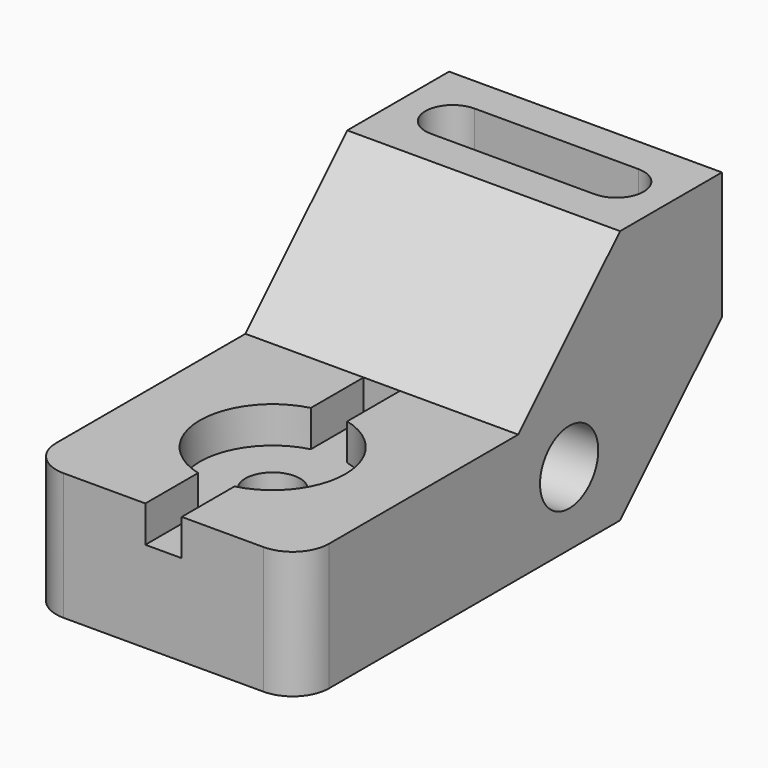
from build123d import *

# Parameters (mm, degrees)
F0_W           = 76.2
F0_H           = 35.56
F1_DEPTH       = 76.2
F2_D           = 20.32
F4_D           = 15.24
F4_CBORE_D     = 40.64
F4_CBORE_DEPTH = 10.16
F3_W           = 10.16
F3_H           = 76.2
F5_DEPTH       = 10.16
F7_DEPTH       = 27.94
F8_R           = 10.16


with BuildPart() as f1:
    # F0 (on Right) → F1 (new body)
    with BuildSketch(Plane.YZ):
        with Locations((38.1, 17.78)):
            Rectangle(F0_W, F0_H)
        Polygon((76.2, 35.56), (76.2, 0), (111.76, 0), (111.76, 71.12), align=None)
        Polygon((111.76, 71.12), (111.76, 0), (147.32, 35.56), (147.32, 71.12), align=None)
    extrude(amount=F1_DEPTH)

    # F2 (through all)
    with Locations(Plane(origin=(0, 0, 0), x_dir=(0, 1, 0), z_dir=(-1, 0, 0))):
        with Locations((93.98, -20.32)):
            Hole(F2_D / 2)

    # F4 (through all)
    with Locations(Plane.XY.offset(35.56)):
        with Locations((38.1, 38.1)):
            CounterBoreHole(F4_D / 2, F4_CBORE_D / 2, F4_CBORE_DEPTH)

    # F3 (on face) → F5 (cut)
    with BuildSketch(Plane.XY.offset(35.56)):
        with Locations((38.1, 38.1)):
            Rectangle(F3_W, F3_H)
    extrude(amount=-F5_DEPTH, mode=Mode.SUBTRACT)

    # F6 (on face) → F7 (cut)
    with BuildSketch(Plane.XY.offset(71.12)):
        with BuildLine():
            ThreePointArc((15.24, 137.16), (7.62, 129.54), (15.24, 121.92))
            Line((15.24, 121.92), (60.96, 121.92))
            ThreePointArc((60.96, 121.92), (68.58, 129.54), (60.96, 137.16))
            Line((60.96, 137.16), (15.24, 137.16))
        make_face()
    extrude(amount=-F7_DEPTH, mode=Mode.SUBTRACT)

    # F8
    f8_edges = [f1.edges().sort_by_distance(p)[0] for p in [
        (0, 0, 17.78),
        (76.2, 0, 17.78),
    ]]
    fillet(f8_edges, radius=F8_R)


solid = f1.part
